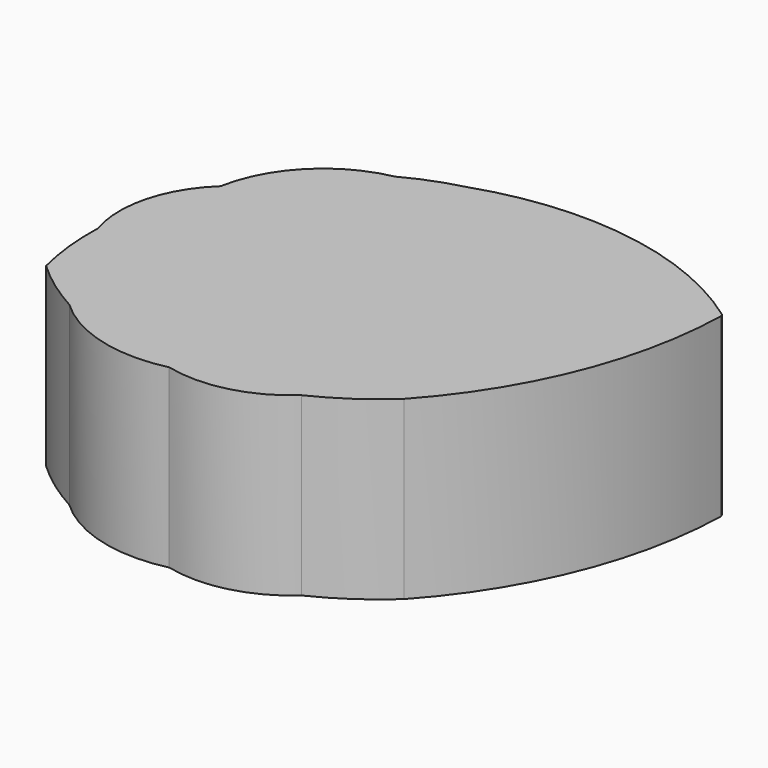
from build123d import *

# Parameters (mm, degrees)
F1_DEPTH = 3.96875


with BuildPart() as f1:
    # F0 (on Top) → F1 (new body)
    with BuildSketch(Plane.XY):
        with BuildLine():
            Line((6.357343, 3.599845), (6.327746, 3.651619))
            ThreePointArc((6.327746, 3.651619), (3.176014, 4.937132), (-0.214079, 4.631808))
            ThreePointArc((-0.214079, 4.631808), (-0.838508, 4.433342), (-1.433398, 4.158738))
            ThreePointArc((-1.433398, 4.158738), (-2.856538, 3.390823), (-3.601964, 1.955776))
            ThreePointArc((-3.601964, 1.955776), (-4.318536, 0.753139), (-4.282346, -0.646325))
            ThreePointArc((-4.282346, -0.646325), (-4.251582, -1.492578), (-4.103787, -2.326392))
            ThreePointArc((-4.103787, -2.326392), (-3.510246, -2.814569), (-2.860909, -3.225627))
            ThreePointArc((-2.860909, -3.225627), (-1.526453, -3.967149), (0, -3.991025))
            ThreePointArc((0, -3.991025), (1.319231, -3.988836), (2.482979, -3.367493))
            ThreePointArc((2.482979, -3.367493), (3.263503, -2.91503), (3.970517, -2.354611))
            ThreePointArc((3.970517, -2.354611), (5.704057, 0.406109), (6.357343, 3.599845))
        make_face()
    extrude(amount=F1_DEPTH)


solid = f1.part
